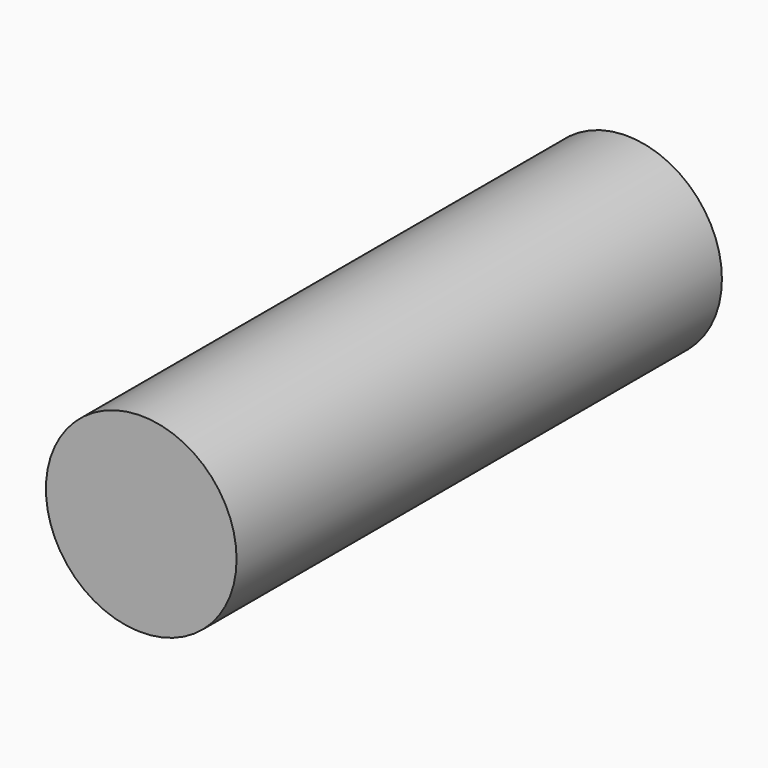
from build123d import *

# Parameters (mm, degrees)
F0_R     = 13.97
F1_DEPTH = 44.45
F4_DEPTH = 11.6078


with BuildPart() as f1:
    # F0 (on Front) → F1 (new body)
    with BuildSketch(Plane.XZ):
        Circle(F0_R)
    extrude(amount=F1_DEPTH)

    # F2: F1 across plane


with BuildPart() as f1_1:
    add(f1.part)
    add(f1.part.mirror(Plane.XZ))

    # F3 (on face) → F4 (cut)
    with BuildSketch(Plane(origin=(0, 44.45, 0), x_dir=(-1, 0, 0), z_dir=(0, 1, 0))):
        Polygon((2.044567, 3.151697), (0, 3.175), (-2.0447, 3.175), (-3.556, 0), (-2.008188, -3.175), (0.036512, -3.175), (2.081212, -3.175), (3.556, 0), align=None)
    extrude(amount=-F4_DEPTH, mode=Mode.SUBTRACT)


solid = f1_1.part
